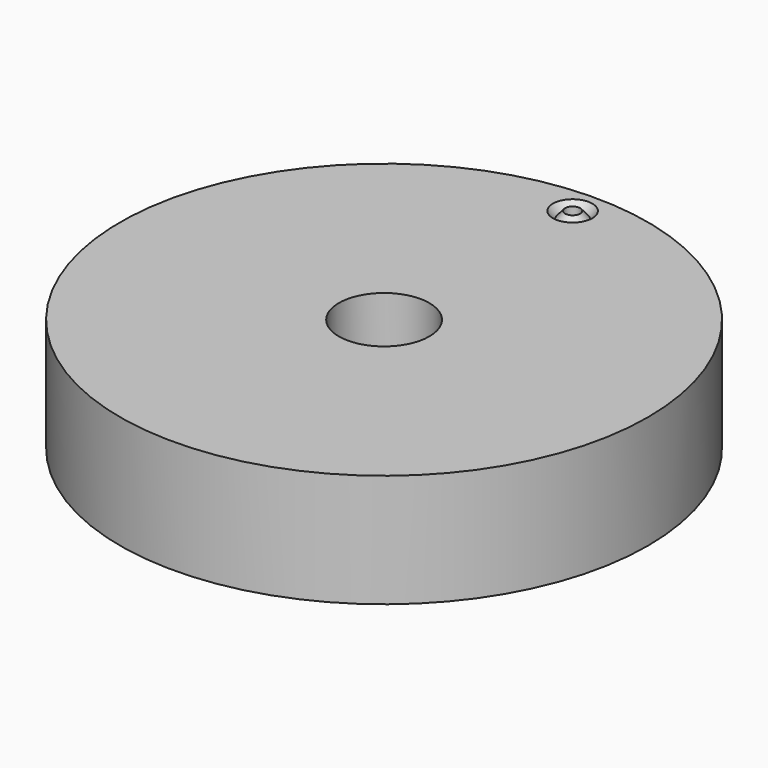
from build123d import *

# Parameters (mm, degrees)
F0_R     = 44.45
F1_DEPTH = 19.05
F2_R     = 7.62
F3_DEPTH = 12.7
F4_R     = 1.27
F5_DEPTH = 19.051
F6_R     = 3.3274
F6_R_2   = 1.27
F7_DEPTH = 2.1082
F7_TAPER = 41


with BuildPart() as f1:
    # F0 (on Top) → F1 (new body)
    with BuildSketch(Plane.XY):
        Circle(F0_R)
    extrude(amount=F1_DEPTH)

    # F2 (on face) → F3 (cut)
    with BuildSketch(Plane.XY.offset(19.05)):
        Circle(F2_R)
    extrude(amount=-F3_DEPTH, mode=Mode.SUBTRACT)

    # F4 (on face) → F5 (cut, through all)
    with BuildSketch(Plane.XY.offset(19.05)):
        with Locations((0, 39.6875)):
            Circle(F4_R)
    extrude(amount=-F5_DEPTH, mode=Mode.SUBTRACT)

    # F6 (on face) → F7 (cut)
    with BuildSketch(Plane.XY.offset(19.05)):
        with Locations((0, 39.6875)):
            Circle(F6_R)
        with Locations((0, 39.6875)):
            Circle(F6_R_2, mode=Mode.SUBTRACT)
    extrude(amount=-F7_DEPTH, taper=F7_TAPER, mode=Mode.SUBTRACT)


solid = f1.part
